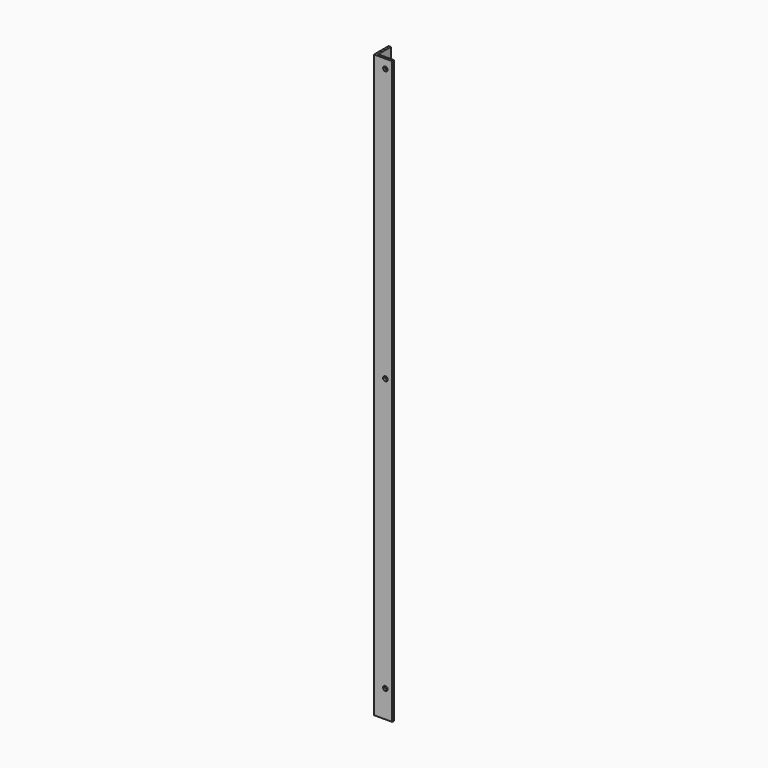
from build123d import *

# Parameters (mm, degrees)
F1_DEPTH = 812.8
F3_D     = 6.35
F3_DEPTH = 12.7


with BuildPart() as f1:
    # F0 (on Top) → F1 (new body)
    with BuildSketch(Plane.XY):
        Polygon((-5.90072, 8.680359), (-9.07572, 8.680359), (-9.07572, -16.719641), (16.32428, -16.719641), (16.32428, -13.544641), (-5.90072, -13.544641), align=None)
    extrude(amount=F1_DEPTH)

    # F3
    with Locations(Plane.XZ.offset(16.719641)):
        with Locations((6.79928, 800.1), (6.79928, 419.1), (6.79928, 38.1)):
            Hole(F3_D / 2, depth=F3_DEPTH)


solid = f1.part
